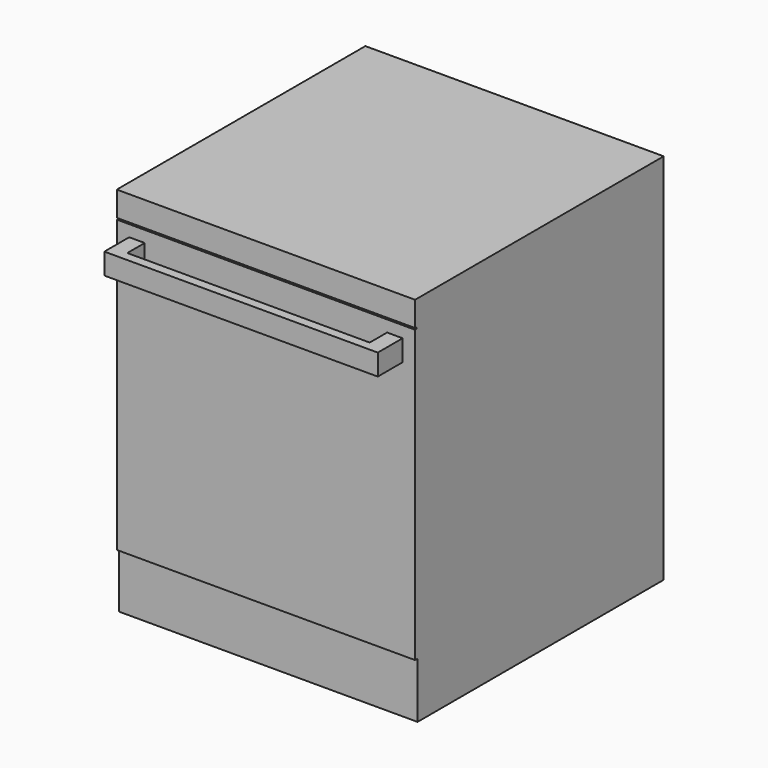
from build123d import *

# Parameters (mm, degrees)
F1_DEPTH = 304.8
F4_DEPTH = 21.59


with BuildPart() as f1:
    # F0 (on Right) → F1 (new body, symmetric)
    with BuildSketch(Plane.YZ):
        Polygon((-628.65, 0), (0, 0), (0, 762), (-635, 762), (-635, 711.2), (-631.825, 711.2), (-631.825, 708.025), (-635, 708.025), (-635, 113.81539), (-628.65, 113.81539), align=None)
    extrude(amount=F1_DEPTH, both=True)

    # F3 (on offset) → F4 (join, symmetric)
    with BuildSketch(Plane.XY.offset(662.94)):
        Polygon((-279.4, -698.5), (279.4, -698.5), (279.4, -609.335542), (247.65, -609.335542), (247.65, -679.45), (-247.65, -679.45), (-247.65, -609.335542), (-279.4, -609.335542), align=None)
    extrude(amount=F4_DEPTH, both=True)


solid = f1.part
